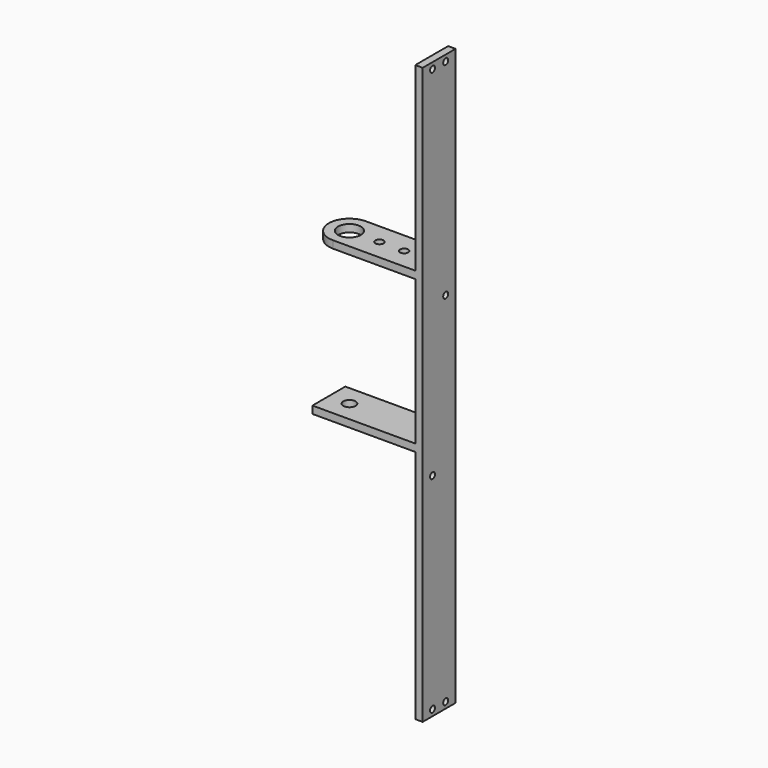
from build123d import *

# Parameters (mm, degrees)
SKETCH_R        = 2.78
SKETCH_R_2      = 1
PAD_DEPTH       = 1.8
SKETCH001_W     = 10
SKETCH001_H     = 140
PAD001_DEPTH    = 1.8
SKETCH002_W     = 10
SKETCH002_H     = 1.8
PAD002_DEPTH    = 25
SKETCH003_R     = 1.5
POCKET_DEPTH    = 82.801
SKETCH004_R     = 0.75
POCKET001_DEPTH = 26.801
SKETCH005_W     = 1.8
SKETCH005_H     = 53.2
SKETCH005_H_2   = 35.2
SKETCH005_H_3   = 40
PAD003_DEPTH    = 1.8


with BuildPart() as part:
    # Sketch → Pad (new body)
    with BuildSketch(Plane.XY):
        with BuildLine():
            ThreePointArc((0, 5), (-5, 0), (0, -5))
            Line((0, -5), (20, -5))
            Line((20, 5), (20, -5))
            Line((0, 5), (20, 5))
        make_face()
        Circle(SKETCH_R, mode=Mode.SUBTRACT)
        with Locations((7.3, 0)):
            Circle(SKETCH_R_2, mode=Mode.SUBTRACT)
        with Locations((13.3, 0)):
            Circle(SKETCH_R_2, mode=Mode.SUBTRACT)
    extrude(amount=PAD_DEPTH)

    # Sketch001 → Pad001 (new body)
    with BuildSketch(Plane.YZ.offset(20)):
        with Locations((0, -24.2)):
            Rectangle(SKETCH001_W, SKETCH001_H)
    extrude(amount=PAD001_DEPTH)

    # Sketch002 → Pad002 (new body)
    with BuildSketch(Plane(origin=(20, 0, 0), x_dir=(0, -1, 0), z_dir=(-1, 0, 0))):
        with Locations((0, -36.1)):
            Rectangle(SKETCH002_W, SKETCH002_H)
    extrude(amount=PAD002_DEPTH)

    # Sketch003 → Pocket (cut, through all)
    with BuildSketch(Plane(origin=(0, 0, -37), x_dir=(1, 0, 0), z_dir=(0, 0, -1))):
        Circle(SKETCH003_R)
    extrude(amount=-POCKET_DEPTH, mode=Mode.SUBTRACT)

    # Sketch004 → Pocket001 (cut, through all)
    with BuildSketch(Plane.YZ.offset(21.8)):
        with Locations((-2, -92.7)):
            Circle(SKETCH004_R)
        with Locations((2, -92.7)):
            Circle(SKETCH004_R)
        with Locations((-2, -42.7)):
            Circle(SKETCH004_R)
        with Locations((2, -5.7)):
            Circle(SKETCH004_R)
        with Locations((2, 44.3)):
            Circle(SKETCH004_R)
        with Locations((-2, 44.3)):
            Circle(SKETCH004_R)
    extrude(amount=-POCKET001_DEPTH, mode=Mode.SUBTRACT)

    # Sketch005 → Pad003 (new body)
    with BuildSketch(Plane(origin=(20, 0, 0), x_dir=(0, -1, 0), z_dir=(-1, 0, 0))):
        with Locations((0, -63.6)):
            Rectangle(SKETCH005_W, SKETCH005_H)
        with Locations((0, -17.6)):
            Rectangle(SKETCH005_W, SKETCH005_H_2)
        with Locations((0, 21.8)):
            Rectangle(SKETCH005_W, SKETCH005_H_3)
    extrude(amount=PAD003_DEPTH)


solid = part.part
